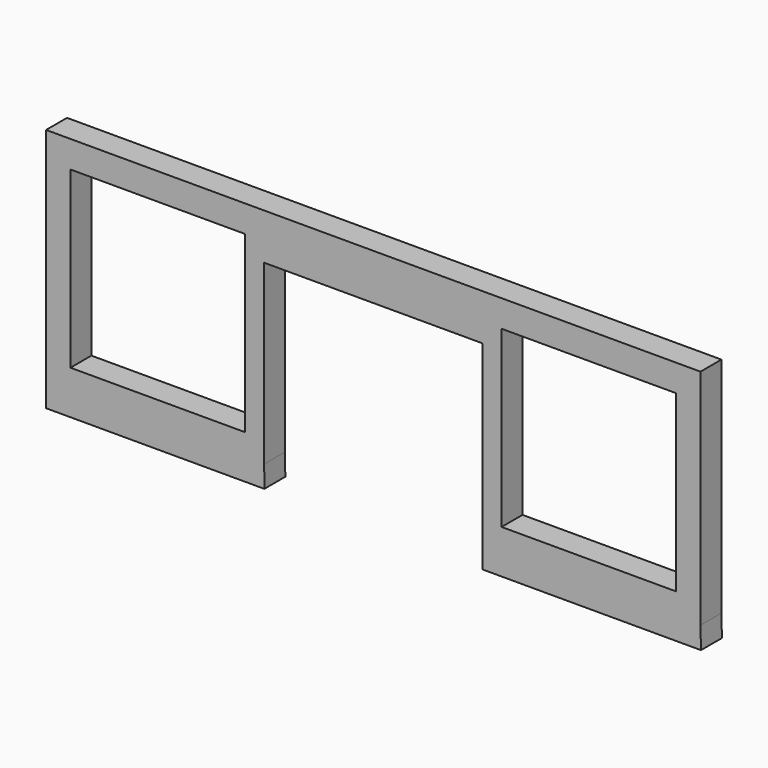
from build123d import *

# Parameters (mm, degrees)
F0_W     = 20.32
F0_H     = 20.32
F1_DEPTH = 3.048


with BuildPart() as f1:
    # F0 (on Front) → F1 (new body)
    with BuildSketch(Plane.XZ):
        Polygon((-12.544237, 34.231244), (-37.944237, 34.231244), (-37.944237, 8.239379), (-12.544237, 8.239379), (-12.544237, 28.877374), (-12.544237, 33.178161), align=None)
        with Locations((-24.944431, 20.939379)):
            Rectangle(F0_W, F0_H, mode=Mode.SUBTRACT)
        Polygon((12.855763, 34.231244), (-12.544237, 34.231244), (-12.544237, 33.178161), (-12.544237, 28.877374), (12.855763, 28.877374), align=None)
        Polygon((-12.544237, 8.239379), (-37.944237, 8.239379), (-37.944237, 5.699379), (-12.529902, 5.699379), align=None)
        Polygon((38.255763, 34.231244), (12.855763, 34.231244), (12.855763, 28.877374), (12.855763, 8.239379), (38.255763, 8.239379), align=None)
        with Locations((25.255957, 20.939379)):
            Rectangle(F0_W, F0_H, mode=Mode.SUBTRACT)
        Polygon((38.314976, 5.699379), (38.255763, 8.239379), (12.855763, 8.239379), (12.855763, 5.699379), align=None)
    extrude(amount=-F1_DEPTH)


solid = f1.part
